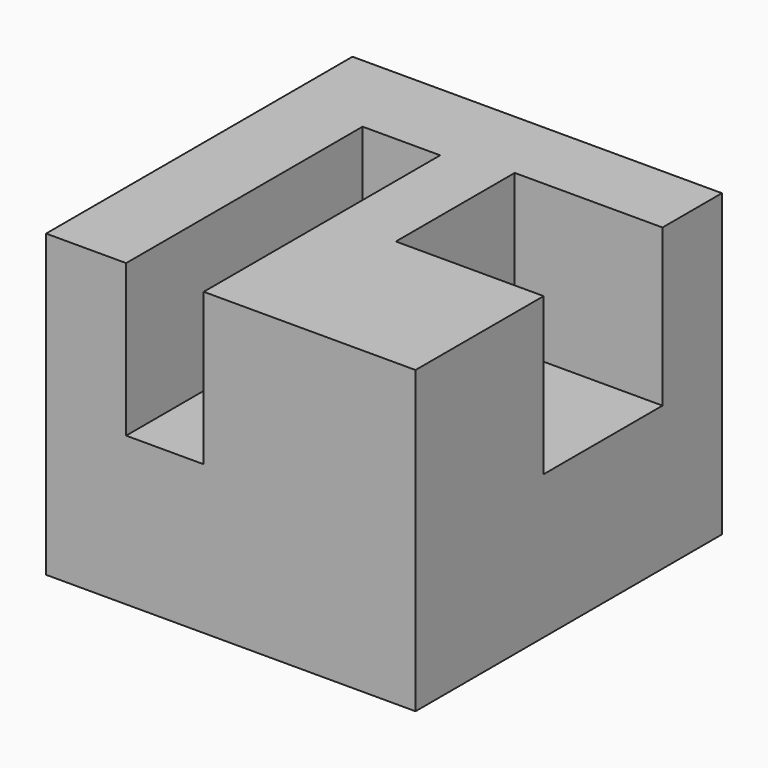
from build123d import *

# Parameters (mm, degrees)
F0_W     = 65.823829
F0_H     = 51.637661
F1_DEPTH = 63.5
F2_W     = 25.535107
F2_H     = 26.953723
F3_DEPTH = 25.4
F4_W     = 13.335001
F4_H     = 26.102553
F5_DEPTH = 50.8


with BuildPart() as f1:
    # F0 (on Right) → F1 (new body)
    with BuildSketch(Plane.YZ):
        with Locations((-23.123458, 10.497765)):
            Rectangle(F0_W, F0_H)
    extrude(amount=F1_DEPTH)

    # F2 (on face) → F3 (cut)
    with BuildSketch(Plane.YZ.offset(63.5)):
        with Locations((-15.746649, 22.839734)):
            Rectangle(F2_W, F2_H)
    extrude(amount=-F3_DEPTH, mode=Mode.SUBTRACT)

    # F4 (on face) → F5 (cut)
    with BuildSketch(Plane.XZ.offset(56.035373)):
        with Locations((20.428085, 23.265319)):
            Rectangle(F4_W, F4_H)
    extrude(amount=-F5_DEPTH, mode=Mode.SUBTRACT)


solid = f1.part
